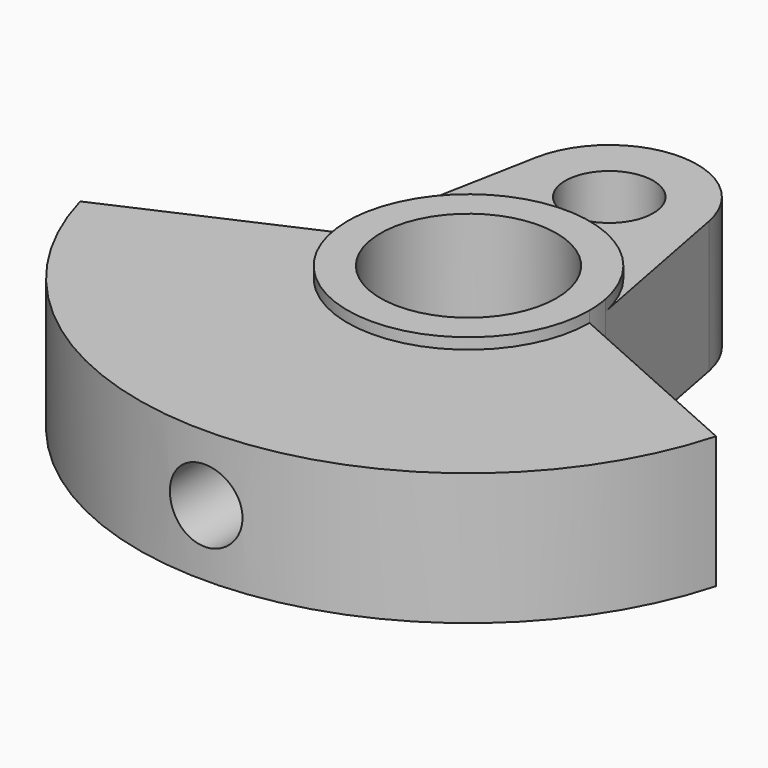
from build123d import *

# Parameters (mm, degrees)
F0_R     = 4
F0_R_2   = 2
F1_DEPTH = 6
F2_R     = 4
F3_DEPTH = 0.5
F5_D     = 3.3
F5_DEPTH = 15.001


with BuildPart() as f1:
    # F0 (on Top) → F1 (new body)
    with BuildSketch(Plane.XY):
        with BuildLine():
            Line((-5.5, 0), (-14.4568322948, -4))
            ThreePointArc((-14.4568322948, -4), (0, -15), (14.4568322948, -4))
            Line((14.4568322948, -4), (5.5, 0))
            ThreePointArc((5.5, 0), (5.4755595256, 0.5179265218), (5.4024553156, 1.03125))
            Line((5.4024553156, 1.03125), (3.9290584114, 8.75))
            ThreePointArc((3.9290584114, 8.75), (0, 12), (-3.9290584114, 8.75))
            Line((-3.9290584114, 8.75), (-5.4024553156, 1.03125))
            ThreePointArc((-5.4024553156, 1.03125), (-5.4755595256, 0.5179265218), (-5.5, 0))
        make_face()
        Circle(F0_R, mode=Mode.SUBTRACT)
        with Locations((0, 8)):
            Circle(F0_R_2, mode=Mode.SUBTRACT)
    extrude(amount=F1_DEPTH)

    # F2 (on face) → F3 (join)
    with BuildSketch(Plane.XY.offset(6)):
        with BuildLine():
            ThreePointArc((-5.5, 0), (0, -5.5), (5.5, 0))
            ThreePointArc((5.5, 0), (5.4755595256, 0.5179265218), (5.4024553156, 1.03125))
            ThreePointArc((5.4024553156, 1.03125), (0, 5.5), (-5.4024553156, 1.03125))
            ThreePointArc((-5.4024553156, 1.03125), (-5.4755595256, 0.5179265218), (-5.5, 0))
        make_face()
        Circle(F2_R, mode=Mode.SUBTRACT)
    extrude(amount=F3_DEPTH)

    # F5 (through all, one way)
    with BuildSketch(Plane(origin=(0, 0, 0), x_dir=(1, 0, 0), z_dir=(0, 1, 0))):
        with Locations((0, -3)):
            Circle(F5_D / 2)
    extrude(amount=-F5_DEPTH, mode=Mode.SUBTRACT)


solid = f1.part
